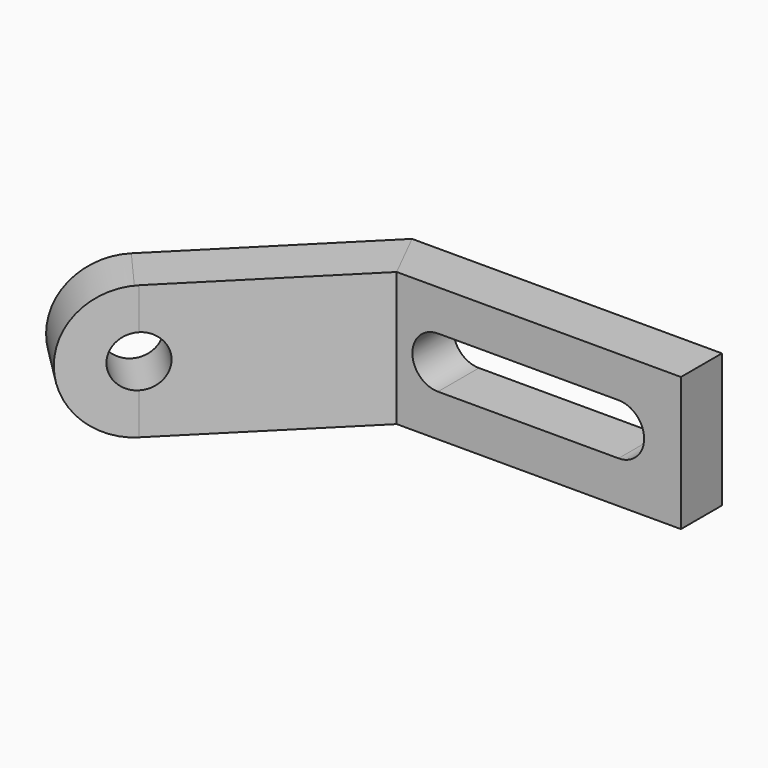
from build123d import *

# Parameters (mm, degrees)
F0_W      = 119.888
F0_H      = 51.816
F1_DEPTH  = 9.906
F2_W      = 109.982
F2_H      = 51.816
F3_DEPTH  = 9.906
F5_DEPTH  = 51.816
F7_DEPTH  = 51.816
F9_DEPTH  = 51.816
F11_DEPTH = 21.0566
F12_W     = 69.85
F12_H     = 19.812
F13_DEPTH = 19.812
F14_R     = 9.906
F15_DEPTH = 25.4


with BuildPart() as f1:
    # F0 (on Front) → F1 (new body)
    with BuildSketch(Plane.XZ):
        with Locations((-59.944, 25.908)):
            Rectangle(F0_W, F0_H)
    extrude(amount=F1_DEPTH)

    # F2 (on face) → F3 (join)
    with BuildSketch(Plane.XZ.offset(9.906)):
        with Locations((-54.991, 25.908)):
            Rectangle(F2_W, F2_H)
    extrude(amount=F3_DEPTH)

    # F4 (on face) → F5 (join)
    with BuildSketch(Plane(origin=(0, 0, 0), x_dir=(1, 0, 0), z_dir=(0, 0, -1))):
        Polygon((-109.982, 9.906), (-109.982, 19.812), (-119.888, 9.906), align=None)
    extrude(amount=-F5_DEPTH)

    # F6 (on face) → F7 (cut)
    with BuildSketch(Plane(origin=(0, 0, 0), x_dir=(1, 0, 0), z_dir=(0, 0, -1))):
        Polygon((-119.888, 0), (-109.982, 19.812), (-119.888, 9.906), align=None)
    extrude(amount=-F7_DEPTH, mode=Mode.SUBTRACT)

    # F12 (on face) → F13 (cut)
    with BuildSketch(Plane.XZ.offset(19.812)):
        with Locations((-59.080427, 26.162)):
            Rectangle(F12_W, F12_H)
        with BuildLine():
            Line((-94.005427, 16.256), (-94.005427, 36.068))
            ThreePointArc((-94.005427, 36.068), (-103.911427, 26.162), (-94.005427, 16.256))
        make_face()
        with BuildLine():
            ThreePointArc((-24.155427, 16.256), (-14.249427, 26.162), (-24.155427, 36.068))
            Line((-24.155427, 36.068), (-24.155427, 16.256))
        make_face()
    extrude(amount=-F13_DEPTH, mode=Mode.SUBTRACT)


with BuildPart() as f9:
    # F8 (on face) → F9 (new body)
    with BuildSketch(Plane(origin=(0, 0, 0), x_dir=(1, 0, 0), z_dir=(0, 0, -1))):
        Polygon((-119.888, 0), (-109.982, 19.812), (-166.378008, 76.208008), (-180.226938, 60.338938), align=None)
    extrude(amount=-F9_DEPTH)

    # F10 (on face) → F11 (join)
    with BuildSketch(Plane(origin=(-59.944, 59.944, 0), x_dir=(-0.707107, -0.707107, 0), z_dir=(-0.707107, 0.707107, 0))):
        with BuildLine():
            Line((170.105762, 51.816), (170.105762, 0))
            ThreePointArc((170.105762, 0), (196.013762, 25.908), (170.105762, 51.816))
        make_face()
    extrude(amount=-F11_DEPTH)

    # F14 (on face) → F15 (cut)
    with BuildSketch(Plane(origin=(-45.054735, 45.054735, 0), x_dir=(0.707107, 0.707107, 0), z_dir=(0.707107, -0.707107, 0))):
        with Locations((-170.105762, 25.908)):
            Circle(F14_R)
    extrude(amount=-F15_DEPTH, mode=Mode.SUBTRACT)


solid = Compound([f1.part, f9.part])
